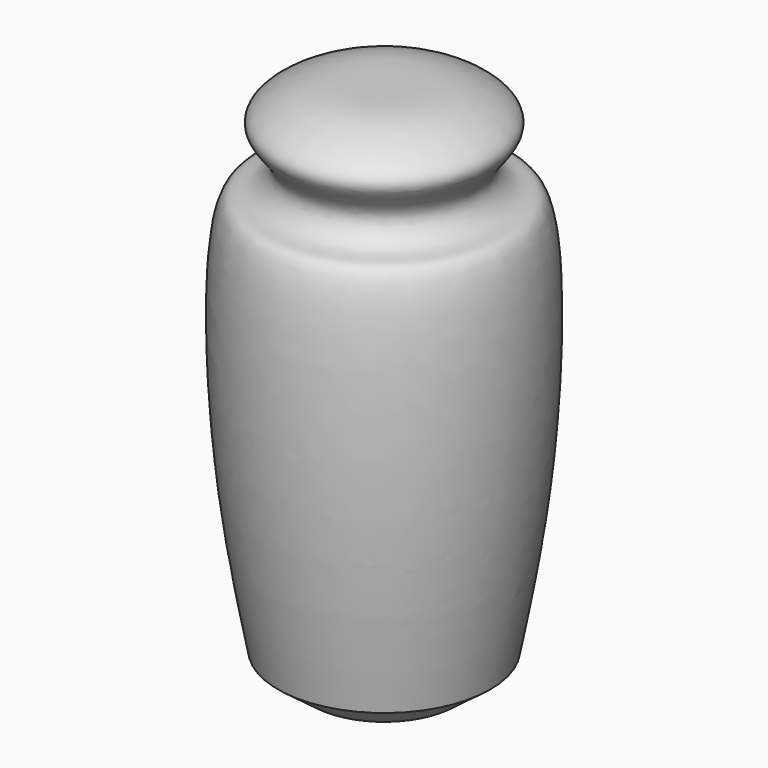
from build123d import *


with BuildPart() as f1:
    # F0 (on Front) → F1 (revolve)
    with BuildSketch(Plane.XZ):
        with BuildLine():
            Line((0, 68.1368261576), (0, 61.088193208))
            Line((0, 61.088193208), (0, -58.1512562931))
            Line((0, -58.1512562931), (17.3279065639, -58.1512562931))
            Line((17.3279065639, -58.1512562931), (25.5513135344, -51.9836954772))
            add(Edge.make_bspline(
                [(25.5513135344, -51.9836954772), (28.3575780705, -37.2834491255), (33.9064241565, -8.2165513389), (34.129293249, 46.6681378546), (25.378812077, 44.3404129074), (18.9760327663, 51.0368134404), (26.2826174549, 57.5214666727), (26.5319518411, 62.4208988475), (16.2471375603, 67.8707924885), (7.5248081473, 68.1935071129), (2.4132214824, 68.1550038568), (0, 68.1368261576)],
                knots=[0, 0, 0, 0, 0.2159503106, 0.427000028, 0.4959286361, 0.5755545526, 0.6634483117, 0.7235691746, 0.8234034049, 0.9166273166, 1, 1, 1, 1], degree=3))
        make_face()
    revolve(axis=Axis((0, 0, -4.8459339887), (0, 0, -1)))


solid = f1.part
